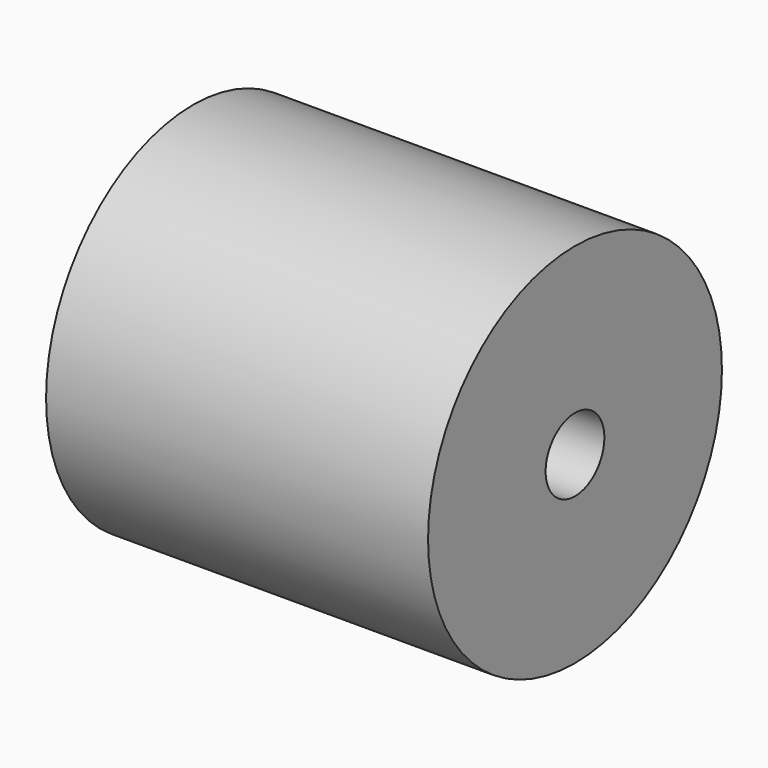
from build123d import *

# Parameters (mm, degrees)
SKETCH057_R             = 12.5
PAD023_DEPTH            = 13
SKETCH058_R             = 2.5
POCKET032_DEPTH         = 8
SKETCH062_R             = 2.5
POCKET031_DEPTH         = 8
BODY015_PLACEMENT_ANGLE = 90


with BuildPart() as part:
    # Sketch057 → Pad023 (new body, symmetric)
    with BuildSketch(Plane.XZ):
        Circle(SKETCH057_R)
    extrude(amount=PAD023_DEPTH, both=True)

    # Sketch058 (on Face3 of Pad023) → Pocket032 (cut)
    with BuildSketch(Plane.XZ.offset(13)):
        Circle(SKETCH058_R)
    extrude(amount=-POCKET032_DEPTH, mode=Mode.SUBTRACT)

    # Sketch062 (on Face2 of Pocket032) → Pocket031 (cut)
    with BuildSketch(Plane(origin=(0, 13, 0), x_dir=(1, 0, 0), z_dir=(0, 1, 0))):
        Circle(SKETCH062_R)
    extrude(amount=-POCKET031_DEPTH, mode=Mode.SUBTRACT)


with BuildPart() as part_1:
    # Body015 placement: moved
    add(part.part.moved(Location((17.75, 0, 150))).rotate(Axis((17.75, 0, 150), (0, 0, 1)), BODY015_PLACEMENT_ANGLE))


solid = part_1.part
